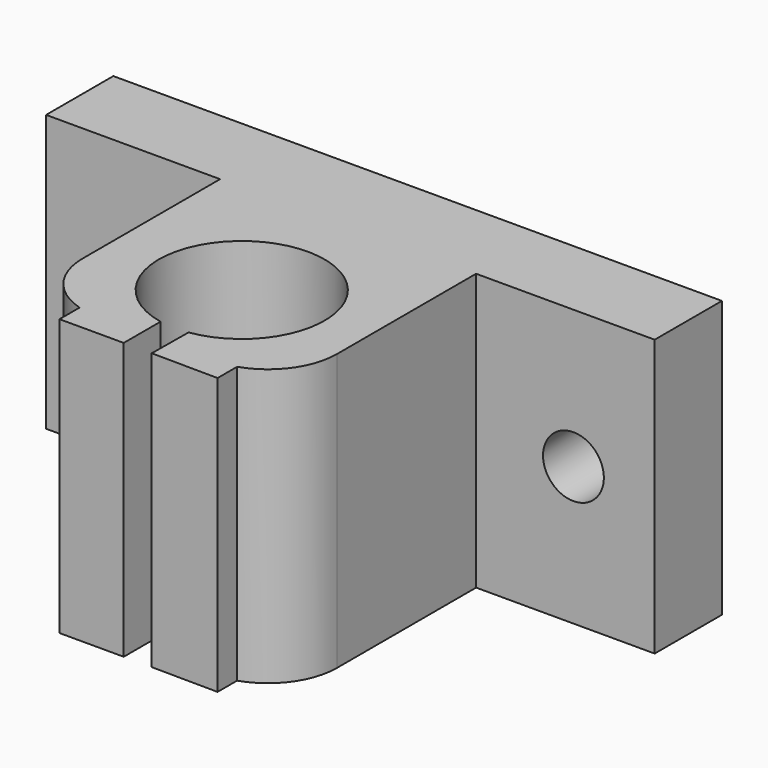
from build123d import *

# Parameters (mm, degrees)
F1_DEPTH = 20
F2_R     = 2.2
F3_DEPTH = 25


with BuildPart() as f1:
    # F0 (on Top) → F1 (new body)
    with BuildSketch(Plane.XY):
        with BuildLine():
            Line((18.46081, 10.690042), (-25.588245, 10.690042))
            Line((-25.588245, 10.690042), (-25.588245, 4.606251))
            Line((-25.588245, 4.606251), (-12.993412, 4.606251))
            Line((-12.993412, 4.606251), (-12.993412, -7.821557))
            ThreePointArc((-12.993412, -7.821557), (-11.987899, -10.828894), (-9.375783, -12.626664))
            Line((-9.375783, -12.626664), (-9.375783, -14.446242))
            Line((-9.375783, -14.446242), (-4.726099, -14.446242))
            Line((-4.726099, -14.446242), (-4.726099, -11.10937))
            ThreePointArc((-4.726099, -11.10937), (-3.428711, 0.77544), (-2.667342, -11.155706))
            Line((-2.667342, -11.155706), (-2.69909, -14.446242))
            Line((-2.69909, -14.446242), (2.101209, -14.492556))
            Line((2.101209, -14.492556), (2.101209, -12.726463))
            ThreePointArc((2.101209, -12.726463), (4.587048, -10.908086), (5.535637, -7.977886))
            Line((5.535637, -7.977886), (5.535637, 4.606251))
            Line((5.535637, 4.606251), (18.46081, 4.606251))
            Line((18.46081, 4.606251), (18.46081, 10.690042))
        make_face()
    extrude(amount=F1_DEPTH)

    # F2 (on face) → F3 (cut)
    with BuildSketch(Plane(origin=(0, 10.690042, 0), x_dir=(-1, 0, 0), z_dir=(0, 1, 0))):
        with Locations((-12.580651, 10)):
            Circle(F2_R)
        with Locations((19.604826, 10)):
            Circle(F2_R)
    extrude(amount=-F3_DEPTH, mode=Mode.SUBTRACT)


solid = f1.part
